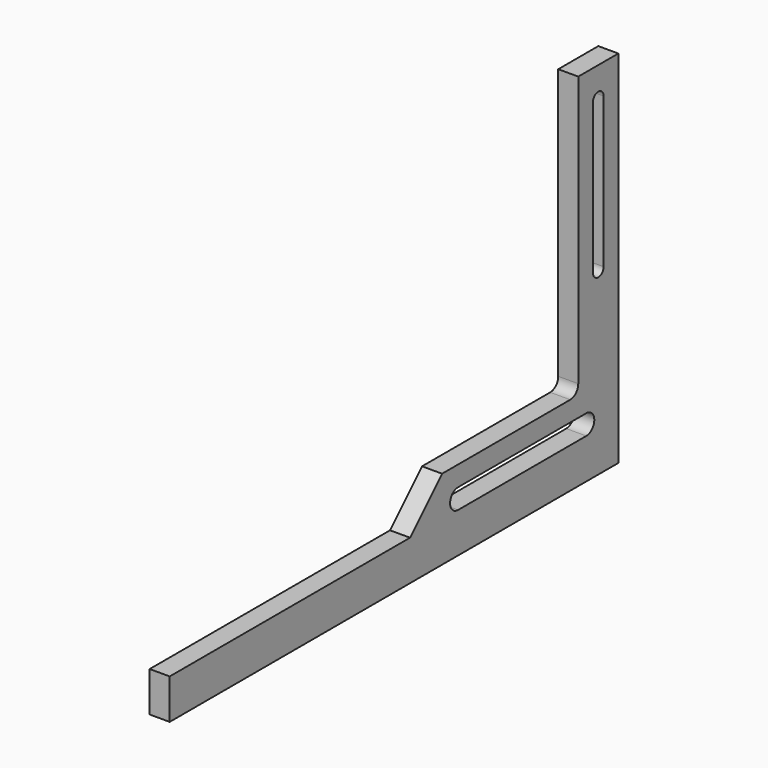
from build123d import *

# Parameters (mm, degrees)
F1_DEPTH = 12.7
F3_DEPTH = 12.701
F5_DEPTH = 12.701


with BuildPart() as f1:
    # F0 (on Right) → F1 (new body)
    with BuildSketch(Plane.YZ):
        Polygon((12.7, 25.4), (-177.8, 25.4), (-177.8, 0), (146.05, 0), (177.8, 0), (177.8, 25.4), align=None)
        with BuildLine():
            Line((38.1, 50.8), (12.7, 25.4))
            Line((12.7, 25.4), (177.8, 25.4))
            Line((177.8, 25.4), (177.8, 228.6))
            Line((177.8, 228.6), (146.05, 228.6))
            Line((146.05, 228.6), (146.05, 57.15))
            ThreePointArc((146.05, 57.15), (144.190128, 52.659872), (139.7, 50.8))
            Line((139.7, 50.8), (38.1, 50.8))
        make_face()
        with BuildLine():
            Line((38.1, 50.8), (12.7, 25.4))
            Line((12.7, 25.4), (177.8, 25.4))
            Line((177.8, 25.4), (177.8, 228.6))
            Line((177.8, 228.6), (146.05, 228.6))
            Line((146.05, 228.6), (146.05, 57.15))
            ThreePointArc((146.05, 57.15), (144.190128, 52.659872), (139.7, 50.8))
            Line((139.7, 50.8), (38.1, 50.8))
        make_face()
        Polygon((12.7, 25.4), (-177.8, 25.4), (-177.8, 0), (146.05, 0), (177.8, 0), (177.8, 25.4), align=None)
    extrude(amount=F1_DEPTH)

    # F2 (on face) → F3 (cut, through all)
    with BuildSketch(Plane.YZ.offset(12.7)):
        with BuildLine():
            ThreePointArc((166.1414, 209.55), (161.925, 213.7664), (157.7086, 209.55))
            Line((157.7086, 209.55), (157.7086, 114.3))
            ThreePointArc((157.7086, 114.3), (161.925, 110.0836), (166.1414, 114.3))
            Line((166.1414, 114.3), (166.1414, 209.55))
        make_face()
    extrude(amount=-F3_DEPTH, mode=Mode.SUBTRACT)

    # F4 (on face) → F5 (cut, through all)
    with BuildSketch(Plane.YZ.offset(12.7)):
        with BuildLine():
            Line((152.4, 38.1), (50.8, 38.1))
            ThreePointArc((50.8, 38.1), (44.45, 31.75), (50.8, 25.4))
            Line((50.8, 25.4), (152.4, 25.4))
            ThreePointArc((152.4, 25.4), (158.75, 31.75), (152.4, 38.1))
        make_face()
    extrude(amount=-F5_DEPTH, mode=Mode.SUBTRACT)


solid = f1.part
